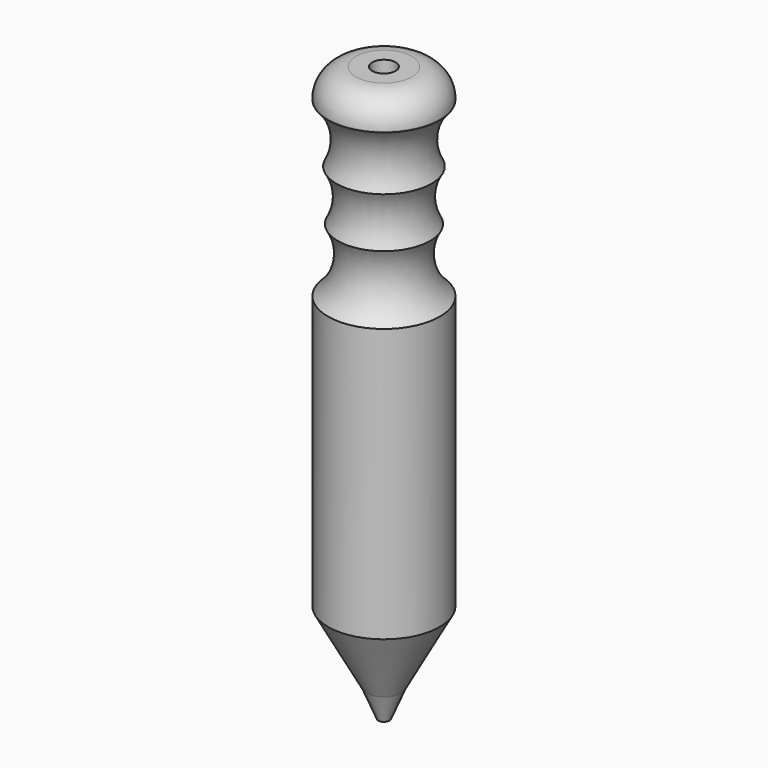
from build123d import *

# Parameters (mm, degrees)
F2_R = 5


with BuildPart() as f1:
    # F0 (on Front) → F1 (revolve)
    with BuildSketch(Plane.XZ):
        with BuildLine():
            Line((-3.074385, 5), (-1, 0))
            Line((-1, 0), (0, 0))
            Line((0, 0), (0, 17.69474))
            Line((0, 17.69474), (-2.1, 17.69474))
            Line((-2.1, 17.69474), (-2.1, 102.69474))
            Line((-2.1, 102.69474), (-10, 102.69474))
            Line((-10, 102.69474), (-10, 97.513927))
            ThreePointArc((-10, 97.513927), (-7.529704, 92.507199), (-8.497441, 87.00873))
            ThreePointArc((-8.497441, 87.00873), (-7.145288, 82.498591), (-8.262521, 77.924594))
            ThreePointArc((-8.262521, 77.924594), (-7.078613, 71.935289), (-10, 66.574422))
            Line((-10, 66.574422), (-10, 17.69474))
            Line((-10, 17.69474), (-3.074385, 5))
        make_face()
    revolve(axis=Axis((0, 0, 8.84737), (0, 0, -1)))

    # F2
    f2_edges = [f1.edges().sort_by_distance(p)[0] for p in [
        (10, 0, 102.69474),
    ]]
    fillet(f2_edges, radius=F2_R)


solid = f1.part
